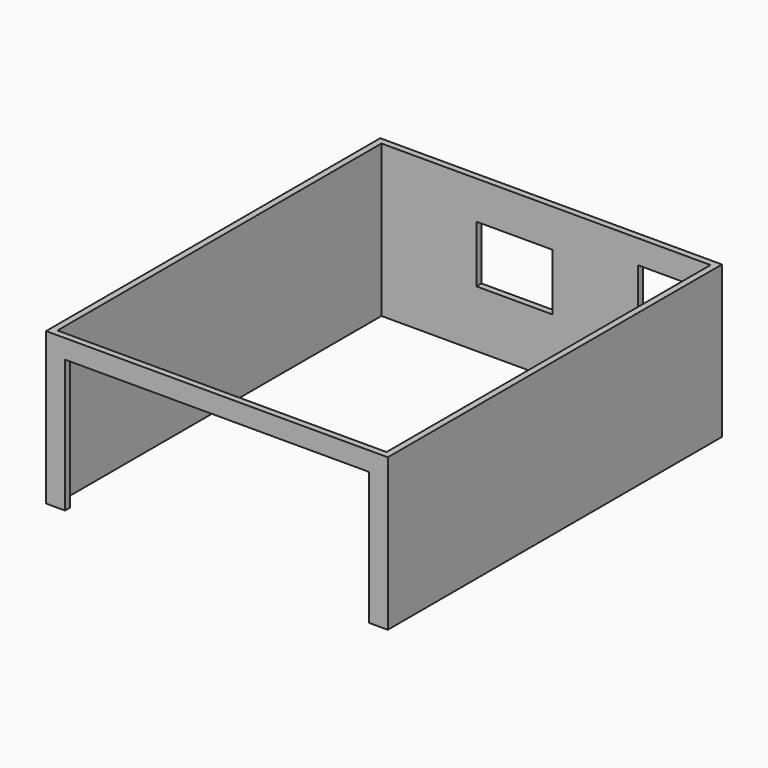
from build123d import *

# Parameters (mm, degrees)
F0_W     = 5486.4
F0_H     = 6705.6
F0_W_2   = 5283.2
F0_H_2   = 6502.4
F1_DEPTH = 2438.4
F2_W     = 1219.2
F2_H     = 914.4
F3_DEPTH = 101.6
F4_W     = 812.8
F4_H     = 2032
F5_DEPTH = 101.6
F6_W     = 4876.8
F6_H     = 2133.6
F7_DEPTH = 101.6


with BuildPart() as f1:
    # F0 (on Top) → F1 (new body)
    with BuildSketch(Plane.XY):
        Rectangle(F0_W, F0_H)
        Rectangle(F0_W_2, F0_H_2, mode=Mode.SUBTRACT)
    extrude(amount=F1_DEPTH)

    # F2 (on face) → F3 (cut, through all)
    with BuildSketch(Plane.XZ.offset(-3251.2)):
        with Locations((-508, 1371.6)):
            Rectangle(F2_W, F2_H)
    extrude(amount=-F3_DEPTH, mode=Mode.SUBTRACT)

    # F4 (on face) → F5 (cut, through all)
    with BuildSketch(Plane.XZ.offset(-3251.2)):
        with Locations((1879.6, 1041.4)):
            Rectangle(F4_W, F4_H)
    extrude(amount=-F5_DEPTH, mode=Mode.SUBTRACT)

    # F6 (on face) → F7 (cut, through all)
    with BuildSketch(Plane.XZ.offset(3352.8)):
        with Locations((0, 1066.8)):
            Rectangle(F6_W, F6_H)
    extrude(amount=-F7_DEPTH, mode=Mode.SUBTRACT)


solid = f1.part
